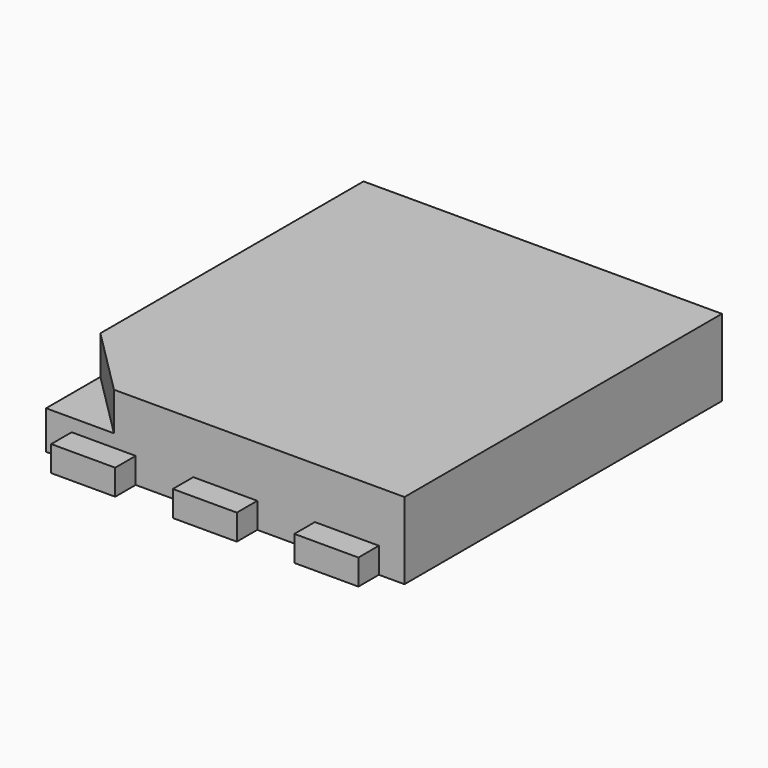
from build123d import *

# Parameters (mm, degrees)
F0_W     = 2.8
F0_H     = 3.1
F1_DEPTH = 0.6
F3_DEPTH = 0.3
F4_W     = 0.5
F4_H     = 0.8
F5_DEPTH = 0.2


with BuildPart() as f1:
    # F0 (on Top) → F1 (new body)
    with BuildSketch(Plane.XY):
        with Locations((0.33098, -1.55)):
            Rectangle(F0_W, F0_H)
    extrude(amount=F1_DEPTH)

    # F2 (on face) → F3 (cut)
    with BuildSketch(Plane.XY.offset(0.6)):
        Polygon((-0.53869, -3.1), (-1.06902, -2.56967), (-1.06902, -3.1), align=None)
    extrude(amount=-F3_DEPTH, mode=Mode.SUBTRACT)

    # F4 (on face) → F5 (join)
    with BuildSketch(Plane(origin=(0, 0, 0), x_dir=(1, 0, 0), z_dir=(0, 0, -1))):
        with Locations((-0.61902, 0.2)):
            Rectangle(F4_W, F4_H)
        with Locations((0.33098, 0.2)):
            Rectangle(F4_W, F4_H)
        with Locations((1.28098, 0.2)):
            Rectangle(F4_W, F4_H)
        with Locations((1.28098, 2.9)):
            Rectangle(F4_W, F4_H)
        with Locations((0.33098, 2.9)):
            Rectangle(F4_W, F4_H)
        with Locations((-0.61902, 2.9)):
            Rectangle(F4_W, F4_H)
    extrude(amount=-F5_DEPTH)


solid = f1.part
